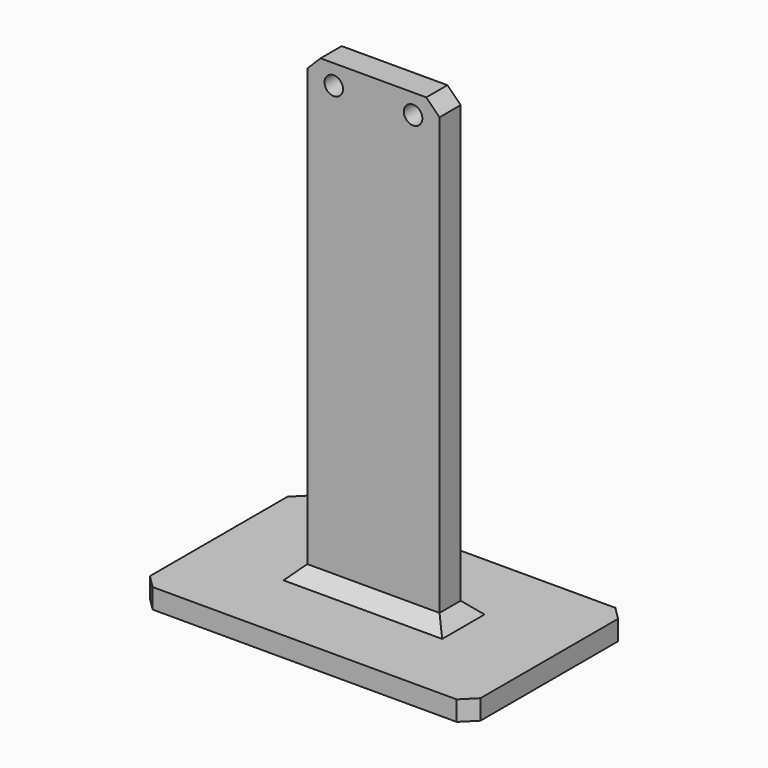
from build123d import *

# Parameters (mm, degrees)
SKETCH_W        = 50
SKETCH_H        = 30
PAD_DEPTH       = 3
SKETCH001_W     = 20
SKETCH001_H     = 4
PAD001_DEPTH    = 70
SKETCH002_R     = 1.4
POCKET_DEPTH    = 5
CHAMFER_SIZE    = 2
CHAMFER001_SIZE = 2
CHAMFER002_SIZE = 2


with BuildPart() as part:
    # Sketch → Pad (new body)
    with BuildSketch(Plane.XY):
        Rectangle(SKETCH_W, SKETCH_H)
    extrude(amount=PAD_DEPTH)

    # Sketch001 (on Face6 of Pad) → Pad001 (join)
    with BuildSketch(Plane.XY.offset(3)):
        Rectangle(SKETCH001_W, SKETCH001_H)
    extrude(amount=PAD001_DEPTH)

    # Sketch002 (on Face9 of Pad001) → Pocket (cut)
    with BuildSketch(Plane.XZ.offset(2)):
        with Locations((-6, 70)):
            Circle(SKETCH002_R)
        with Locations((6, 70)):
            Circle(SKETCH002_R)
    extrude(amount=-POCKET_DEPTH, mode=Mode.SUBTRACT)

    # Chamfer
    chamfer_edges = [part.edges().sort_by_distance(p)[0] for p in [
        (10, 0, 3),
        (0, -2, 3),
        (0, 2, 3),
        (-10, 0, 3),
    ]]
    chamfer(chamfer_edges, length=CHAMFER_SIZE)

    # Chamfer001
    chamfer001_edges = [part.edges().sort_by_distance(p)[0] for p in [
        (-25, -15, 1.5),
        (-25, 15, 1.5),
        (25, -15, 1.5),
        (25, 15, 1.5),
    ]]
    chamfer(chamfer001_edges, length=CHAMFER001_SIZE)

    # Chamfer002
    chamfer002_edges = [part.edges().sort_by_distance(p)[0] for p in [
        (10, 0, 73),
        (-10, 0, 73),
    ]]
    chamfer(chamfer002_edges, length=CHAMFER002_SIZE)


solid = part.part
